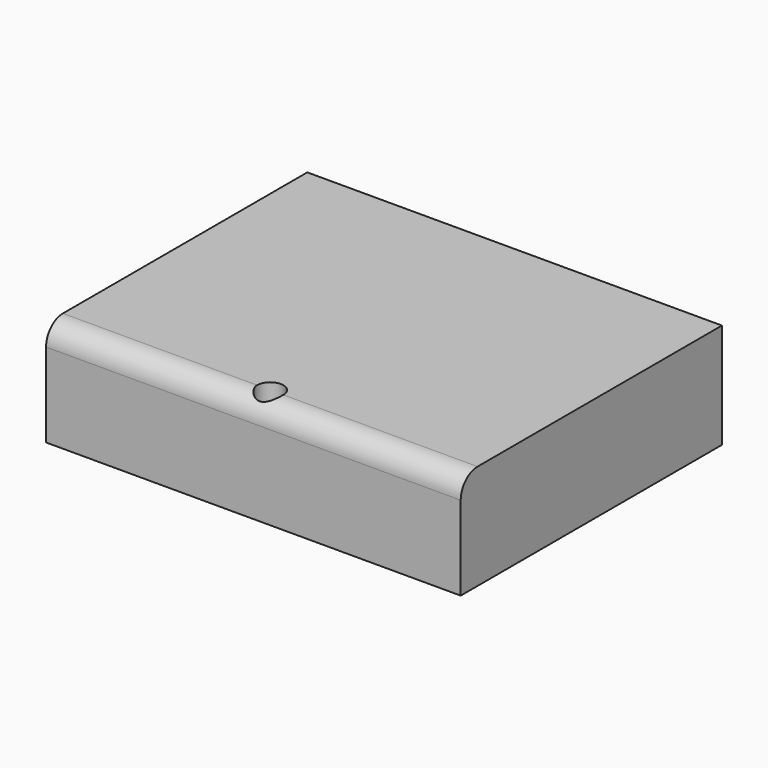
from build123d import *

# Parameters (mm, degrees)
F0_W     = 100.230019
F0_H     = 78.929061
F1_DEPTH = 25.4
F2_R     = 5.08
F5_D     = 6.35


with BuildPart() as f1:
    # F0 (on Top) → F1 (new body)
    with BuildSketch(Plane.XY):
        with Locations((-6.965729, -14.46478)):
            Rectangle(F0_W, F0_H)
    extrude(amount=F1_DEPTH)

    # F2
    f2_edges = [f1.edges().sort_by_distance(p)[0] for p in [
        (-6.965728, -53.92931, 25.4),
    ]]
    fillet(f2_edges, radius=F2_R)

    # F5 (through all)
    with Locations(Plane.XY.offset(25.4)):
        with Locations((-6.965728, -48.84931)):
            Hole(F5_D / 2)


solid = f1.part
